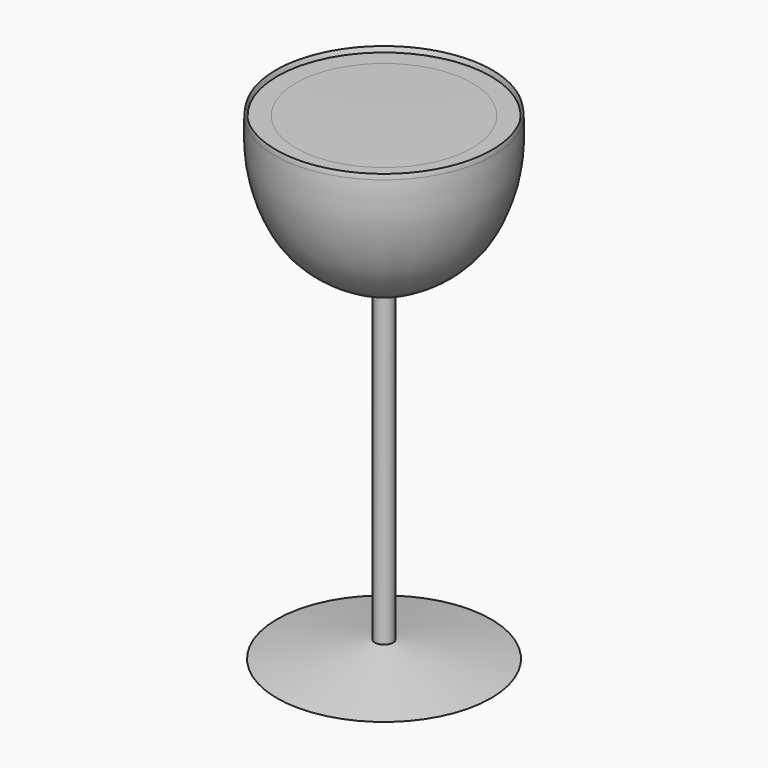
from build123d import *


with BuildPart() as f1:
    # F0 (on Front) → F1 (revolve)
    with BuildSketch(Plane.XZ):
        with BuildLine():
            Line((-25.1796171069, -76.2448236346), (0, -76.2448236346))
            Line((0, -76.2448236346), (0, 2.8238825034))
            add(Edge.make_bspline(
                [(-25.0855854743, 36.2715501967), (-24.7873408797, 34.5428383564), (-23.8322821472, 25.854874243), (-21.9733024606, 17.2890100088), (-16.5923022967, 10.0196109812), (-10.4980028761, 6.1702704011), (-4.9043637619, 2.8435662249), (-1.5542692873, 2.8301205815), (0, 2.8238825034)],
                knots=[0.5086085758, 0.5086085758, 0.5086085758, 0.5086085758, 0.5756028274, 0.6805602209, 0.770733837, 0.8543757753, 0.9324379472, 1, 1, 1, 1], degree=3))
            Line((-25.0855854743, 36.2715501967), (-25.6502646953, 36.2715501967))
            add(Edge.make_bspline(
                [(-2.1179111209, 0), (-5.5390971994, 1.5233143532), (-12.1613608248, 4.4719377254), (-19.7908754961, 10.8441105754), (-23.9453410686, 19.4365102004), (-25.8371380581, 27.3752615696), (-25.7740402847, 34.7714871933), (-25.6502646953, 36.2715501967)],
                knots=[0, 0, 0, 0, 0.103266552, 0.1998892534, 0.2933593997, 0.3943507151, 0.4531633432, 0.4531633432, 0.4531633432, 0.4531633432], degree=3))
            Line((-2.1179111209, 0), (-2.1179111209, -72.2443237901))
            Line((-2.1179111209, -72.2443237901), (-25.1796171069, -76.2448236346))
        make_face()
        with BuildLine():
            add(Edge.make_bspline(
                [(-25.0855854743, 36.2715501967), (-24.7873408797, 34.5428383564), (-23.8322821472, 25.854874243), (-21.9733024606, 17.2890100088), (-16.5923022967, 10.0196109812), (-10.4980028761, 6.1702704011), (-4.9043637619, 2.8435662249), (-1.5542692873, 2.8301205815), (0, 2.8238825034)],
                knots=[0.5086085758, 0.5086085758, 0.5086085758, 0.5086085758, 0.5756028274, 0.6805602209, 0.770733837, 0.8543757753, 0.9324379472, 1, 1, 1, 1], degree=3))
            Line((0, 2.8238825034), (0, 36.2715501967))
            Line((0, 36.2715501967), (-25.0855854743, 36.2715501967))
        make_face()
        with BuildLine():
            Line((-25.6502646953, 36.2715501967), (-25.0855854743, 36.2715501967))
            add(Edge.make_bspline(
                [(-25.6502646953, 36.2715501967), (-25.5918066847, 36.9800154071), (-25.4303466183, 37.8501101521), (-25.208760371, 36.9855074858), (-25.0855854743, 36.2715501967)],
                knots=[0.4531633432, 0.4531633432, 0.4531633432, 0.4531633432, 0.4809399771, 0.5086085758, 0.5086085758, 0.5086085758, 0.5086085758], degree=3))
        make_face()
    revolve(axis=Axis((0, 0, -36.7104705656), (0, 0, -1)))

    # F2 (on Front) → F3 (revolve)
    with BuildSketch(Plane.XZ):
        with BuildLine():
            add(Edge.make_bspline(
                [(-25.4224166274, 36.2280718982), (-24.9912352181, 33.0922978333), (-24.0591614317, 26.313775515), (-18.6376344636, 13.0544648307), (-9.1480261036, 8.1150042878), (-3.128793235, 2.7754807682), (0, 0)],
                knots=[0, 0, 0, 0, 0.2336923695, 0.5051667976, 0.742786031, 1, 1, 1, 1], degree=3))
            Line((0, 0), (0, 36.4634618163))
            Line((0, 36.4634618163), (-25.4224166274, 36.2280718982))
        make_face()
    revolve(axis=Axis((0, 0, 18.2317309082), (0, 0, 1)))


solid = f1.part
